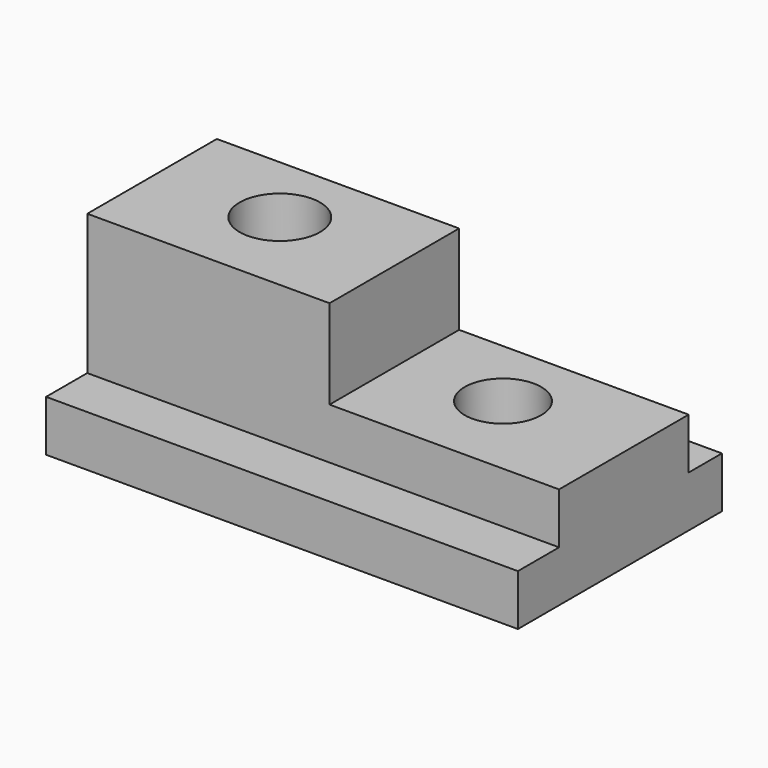
from build123d import *

# Parameters (mm, degrees)
F0_W     = 117.475
F0_H     = 12.7
F1_DEPTH = 63.5
F2_W     = 117.475
F2_H     = 40.322089
F3_DEPTH = 12.7
F4_W     = 60.325
F4_H     = 40.322089
F5_DEPTH = 22.225
F6_R     = 9.525
F7_DEPTH = 25.4
F8_R     = 10.010488
F9_DEPTH = 47.879


with BuildPart() as f1:
    # F0 (on Front) → F1 (new body)
    with BuildSketch(Plane.XZ):
        with Locations((4.799338, -20.741718)):
            Rectangle(F0_W, F0_H)
    extrude(amount=F1_DEPTH)

    # F2 (on face) → F3 (join)
    with BuildSketch(Plane.XY.offset(-14.391718)):
        with Locations((4.799338, -30.519849)):
            Rectangle(F2_W, F2_H)
    extrude(amount=F3_DEPTH)

    # F4 (on face) → F5 (join)
    with BuildSketch(Plane.XY.offset(-1.691718)):
        with Locations((-23.775662, -30.519849)):
            Rectangle(F4_W, F4_H)
    extrude(amount=F5_DEPTH)

    # F6 (on face) → F7 (cut)
    with BuildSketch(Plane.XY.offset(-1.691718)):
        with Locations((31.786838, -28.455894)):
            Circle(F6_R)
    extrude(amount=-F7_DEPTH, mode=Mode.SUBTRACT)

    # F8 (on face) → F9 (cut)
    with BuildSketch(Plane.XY.offset(20.533282)):
        with Locations((-23.775662, -28.455894)):
            Circle(F8_R)
    extrude(amount=-F9_DEPTH, mode=Mode.SUBTRACT)


solid = f1.part
